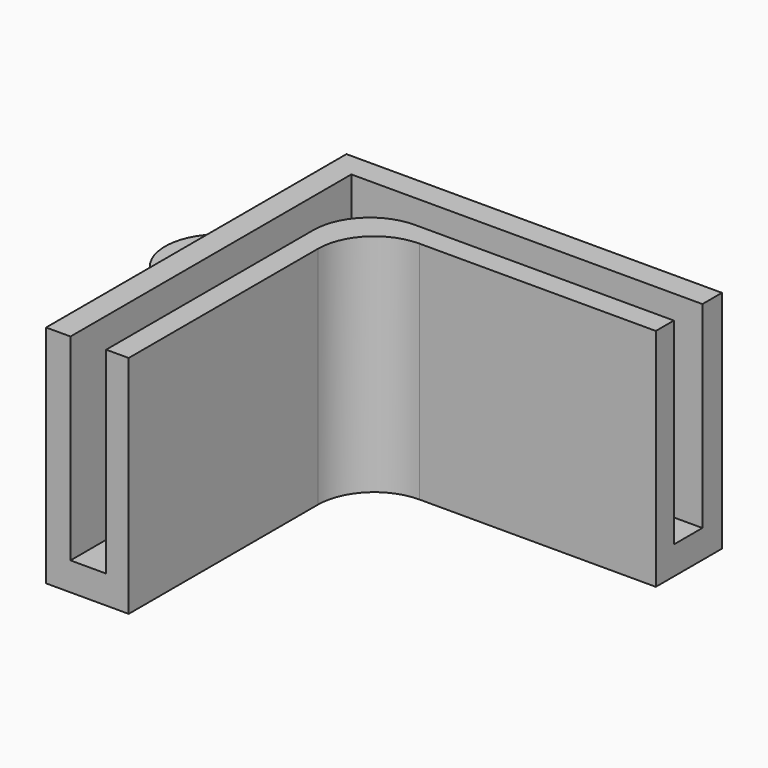
from build123d import *

# Parameters (mm, degrees)
F1_DEPTH = 12
F3_DEPTH = 10.5
F4_R     = 3
F5_R     = 1.35
F6_DEPTH = 8


with BuildPart() as f1:
    # F0 (on Top) → F1 (new body)
    with BuildSketch(Plane.XY):
        Polygon((-7.96441, 20), (-7.96441, 0), (-3.56441, 0), (-3.56441, 15.6), (12.03559, 15.6), (12.03559, 20), align=None)
    extrude(amount=F1_DEPTH)

    # F2 (on face) → F3 (cut)
    with BuildSketch(Plane.XY.offset(12)):
        Polygon((-6.66441, 0), (-5.76441, 0), (-5.76441, 17.8), (12.03559, 17.8), (12.03559, 18.7), (-6.66441, 18.7), align=None)
        Polygon((-5.76441, 17.8), (-5.76441, 0), (-4.76441, 0), (-4.76441, 16.8), (12.03559, 16.8), (12.03559, 17.8), align=None)
    extrude(amount=-F3_DEPTH, mode=Mode.SUBTRACT)

    # F4
    f4_edges = [f1.edges().sort_by_distance(p)[0] for p in [
        (-4.76441, 16.8, 6.75),
        (-3.56441, 15.6, 6),
    ]]
    fillet(f4_edges, radius=F4_R)

    # F5 (on Top) → F6 (join)
    with BuildSketch(Plane.XY):
        with BuildLine():
            ThreePointArc((-7.96441, 20), (-9.434479, 18.498851), (-11.331965, 17.59658))
            ThreePointArc((-11.331965, 17.59658), (-9.376537, 17.445554), (-7.96441, 16.084523))
            Line((-7.96441, 16.084523), (-7.96441, 20))
        make_face()
        with BuildLine():
            ThreePointArc((-7.96441, 13.515477), (-9.376537, 12.154446), (-11.331965, 12.00342))
            ThreePointArc((-11.331965, 12.00342), (-9.434479, 11.101149), (-7.96441, 9.6))
            Line((-7.96441, 9.6), (-7.96441, 13.515477))
        make_face()
        with BuildLine():
            ThreePointArc((-7.96441, 16.084523), (-9.376537, 17.445554), (-11.331965, 17.59658))
            ThreePointArc((-11.331965, 17.59658), (-13.46441, 14.8), (-11.331965, 12.00342))
            ThreePointArc((-11.331965, 12.00342), (-9.376537, 12.154446), (-7.96441, 13.515477))
            Line((-7.96441, 13.515477), (-7.96441, 16.084523))
        make_face()
        with Locations((-10.56441, 14.8)):
            Circle(F5_R, mode=Mode.SUBTRACT)
    extrude(amount=F6_DEPTH)


solid = f1.part
